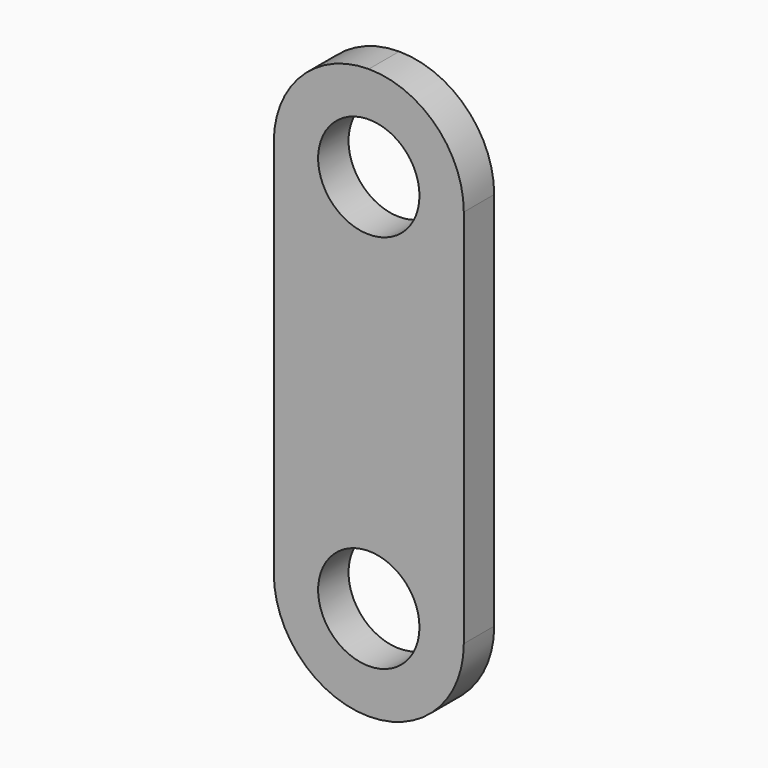
from build123d import *

# Parameters (mm, degrees)
F0_R     = 101.6
F1_DEPTH = 76.2


with BuildPart() as f1:
    # F0 (on Front) → F1 (new body)
    with BuildSketch(Plane.XZ):
        with BuildLine():
            Line((-190.5, 762), (-190.5, 0))
            ThreePointArc((-190.5, 0), (-134.703842, -134.703842), (0, -190.5))
            ThreePointArc((0, -190.5), (134.703842, -134.703842), (190.5, 0))
            Line((190.5, 0), (190.5, 762))
            ThreePointArc((190.5, 762), (134.703842, 896.703842), (0, 952.5))
            ThreePointArc((0, 952.5), (-134.703842, 896.703842), (-190.5, 762))
        make_face()
        Circle(F0_R, mode=Mode.SUBTRACT)
        with Locations((0, 762)):
            Circle(F0_R, mode=Mode.SUBTRACT)
    extrude(amount=F1_DEPTH)


solid = f1.part
